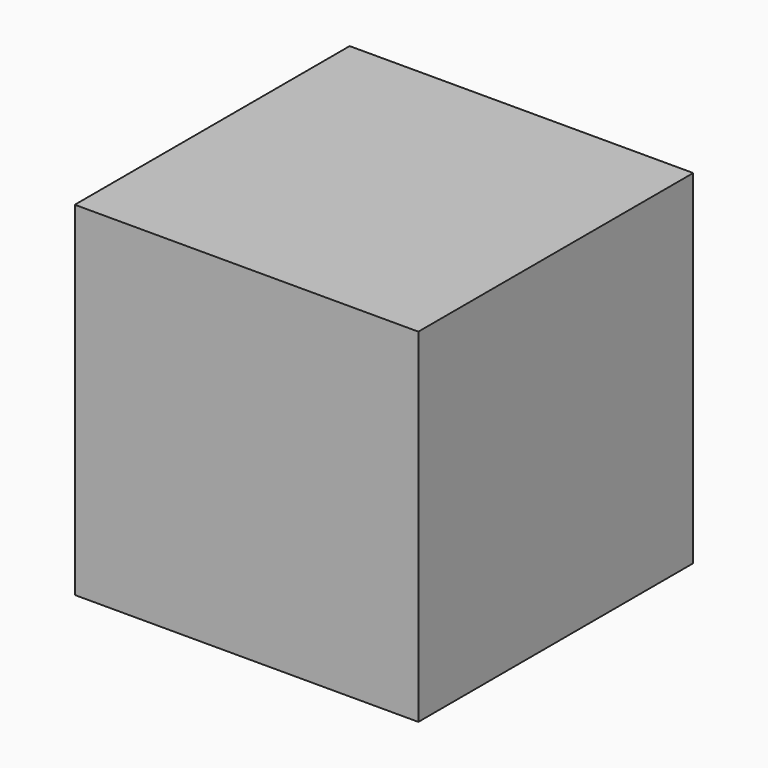
from build123d import *

# Parameters (mm, degrees)
BOX_W     = 20
BOX_H     = 20
BOX_DEPTH = 20


with BuildPart() as part:
    # Box → Box (new body)
    with BuildSketch(Plane.XY):
        with Locations((10, 10)):
            Rectangle(BOX_W, BOX_H)
    extrude(amount=BOX_DEPTH)


solid = part.part
